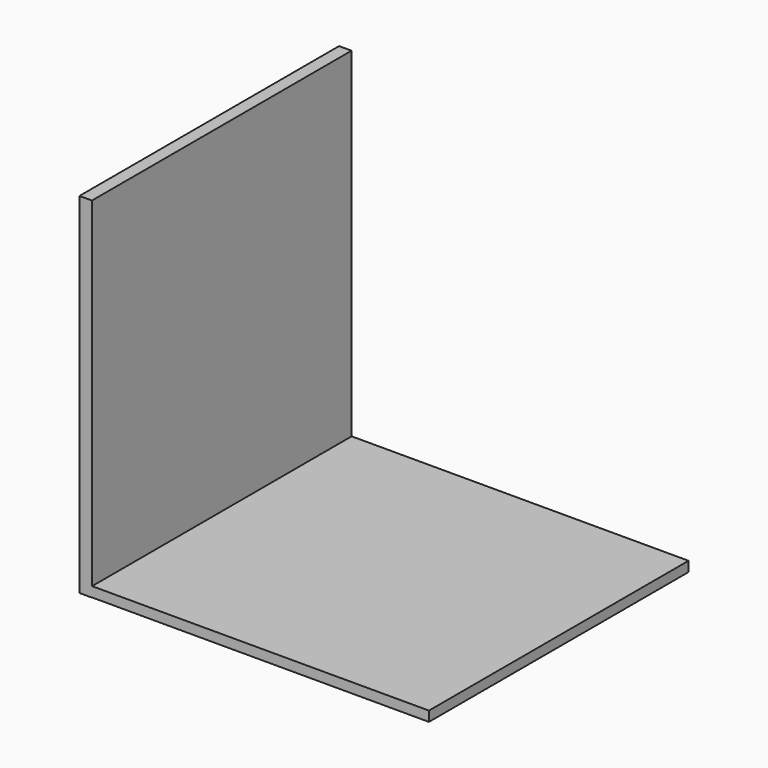
from build123d import *

# Parameters (mm, degrees)
F0_W = 140
F0_H = 4.0000033164


with BuildPart() as f3:
    # F3: sweep along a path in F1
    with BuildLine(Plane.YZ) as f3_path:
        Line((0, -86.072042906), (-130, -86.072042906))
    # F0 (on Front) → F3 (sweep)
    with BuildSketch(Plane.XZ):
        with Locations((-34.0396610475, -66.7793205273)):
            Rectangle(F0_W, F0_H)
    sweep(path=f3_path.line)

    # F4: sweep along a path in F4_path
    with BuildLine(Plane(origin=(-104.0396610475, 0, -64.7793188691), x_dir=(0, 1, 0), z_dir=(0, 0, 1))) as f4_path:
        Line((0, 0), (-130, 0))
    # F2 (on Front) → F4 (sweep)
    with BuildSketch(Plane.XZ):
        Polygon((-104.0475592017, 71.206510067), (-103.9880141616, -68.8533857465), (-98.9880146134, -68.8512600475), (-99.0475596536, 71.2086357659), align=None)
    sweep(path=f4_path.line)


solid = f3.part
